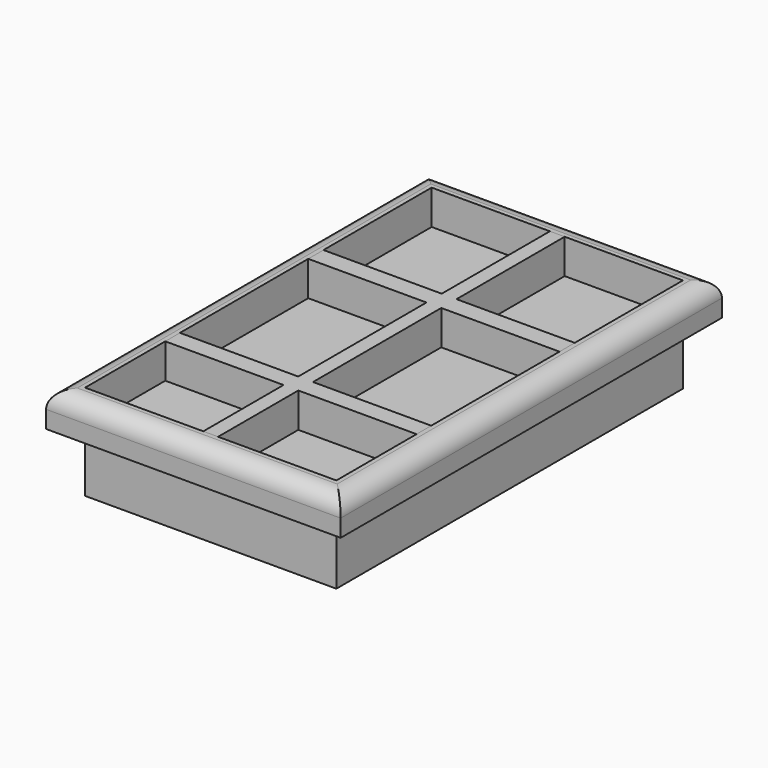
from build123d import *

# Parameters (mm, degrees)
F0_W     = 86.36
F0_H     = 139.7
F0_W_2   = 73.66
F0_H_2   = 127
F1_DEPTH = 10.16
F2_DEPTH = 17.78
F3_R     = 5.08
F4_W     = 4.3355189264
F4_H     = 39.6382862926
F4_H_2   = 5.59142977
F4_W_2   = 34.6622405368
F4_H_3   = 46.9996649772
F4_H_4   = 5.3825657815
F4_H_5   = 29.3880531788
F5_DEPTH = 10.16


with BuildPart() as f1:
    # F0 (on Top) → F1 (new body)
    with BuildSketch(Plane.XY):
        Rectangle(F0_W, F0_H)
        Rectangle(F0_W_2, F0_H_2, mode=Mode.SUBTRACT)
    extrude(amount=F1_DEPTH)

    # F0 (on Top) → F2 (join)
    with BuildSketch(Plane.XY):
        Rectangle(F0_W_2, F0_H_2)
    extrude(amount=-F2_DEPTH)

    # F3
    f3_edges = [f1.edges().sort_by_distance(p)[0] for p in [
        (-43.18, 0, 10.16),
        (0, 69.85, 10.16),
        (43.18, 0, 10.16),
        (0, -69.85, 10.16),
    ]]
    fillet(f3_edges, radius=F3_R)


with BuildPart() as f5:
    # F4 (on face) → F5 (new body)
    with BuildSketch(Plane.XY):
        with Locations((0, 43.6808568537)):
            Rectangle(F4_W, F4_H)
        with Locations((0, 21.0659988225)):
            Rectangle(F4_W, F4_H_2)
        with Locations((-19.4988797316, 21.0659988225)):
            Rectangle(F4_W_2, F4_H_2)
        with Locations((19.4988797316, 21.0659988225)):
            Rectangle(F4_W_2, F4_H_2)
        with Locations((0, -5.2295485511)):
            Rectangle(F4_W, F4_H_3)
        with Locations((0, -31.4206639305)):
            Rectangle(F4_W, F4_H_4)
        with Locations((-19.4988797316, -31.4206639305)):
            Rectangle(F4_W_2, F4_H_4)
        with Locations((19.4988797316, -31.4206639305)):
            Rectangle(F4_W_2, F4_H_4)
        with Locations((0, -48.8059734106)):
            Rectangle(F4_W, F4_H_5)
    extrude(amount=F5_DEPTH)


solid = Compound([f1.part, f5.part])
